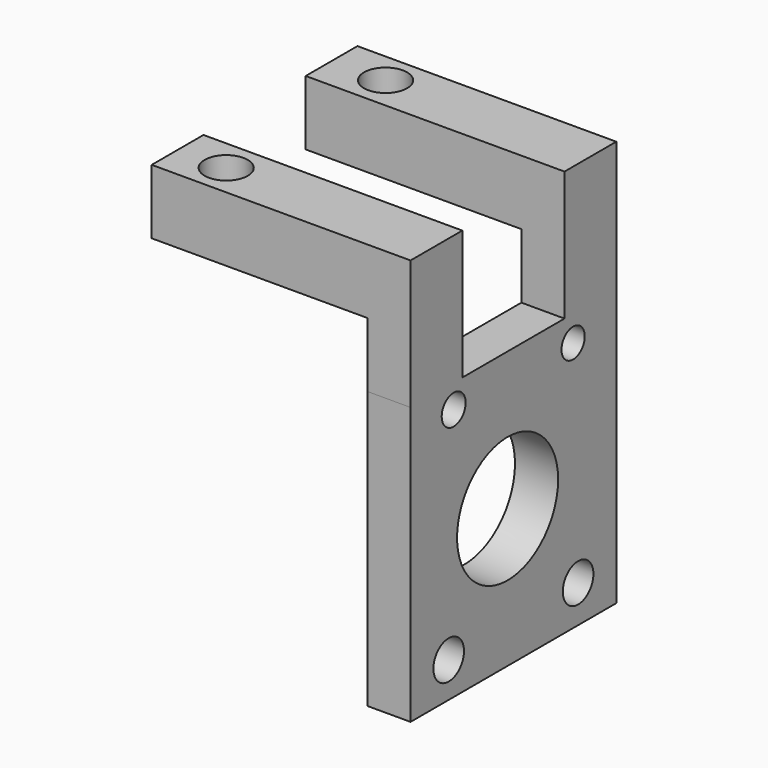
from build123d import *

# Parameters (mm, degrees)
F0_W           = 23.846153
F0_H           = 25.673076
F0_R           = 1.772989
F0_R_2         = 5.857696
F0_R_3         = 1.386751
F0_R_4         = 1.346154
F1_DEPTH       = 4
F2_W           = 4
F2_H           = 6
F3_DEPTH       = 10
F3_FACE_W      = 4
F3_FACE_H      = 6
F4_DEPTH       = 2
F5_W           = 6
F5_H           = 6
F6_DEPTH       = 20
F8_D           = 4
F8_CSINK_D     = 6
F8_CSINK_ANGLE = 90
F9_D           = 4
F9_CSINK_D     = 6
F9_CSINK_ANGLE = 90


with BuildPart() as f1:
    # F0 (on Right) → F1 (new body)
    with BuildSketch(Plane.YZ):
        with Locations((0.673076, -12.836538)):
            Rectangle(F0_W, F0_H)
        with Locations((-6.826923, -22.403846)):
            Circle(F0_R, mode=Mode.SUBTRACT)
        with Locations((8.173076, -22.211537)):
            Circle(F0_R, mode=Mode.SUBTRACT)
        with Locations((0, -12.836538)):
            Circle(F0_R_2, mode=Mode.SUBTRACT)
        with Locations((-6.25, -2.211538)):
            Circle(F0_R_3, mode=Mode.SUBTRACT)
        with Locations((7.596153, -2.403846)):
            Circle(F0_R_4, mode=Mode.SUBTRACT)
    extrude(amount=F1_DEPTH)

    # F2 (on face) → F3 (join)
    with BuildSketch(Plane.XY):
        with Locations((2, 9.596153)):
            Rectangle(F2_W, F2_H)
        with Locations((2, -8.25)):
            Rectangle(F2_W, F2_H)
    extrude(amount=F3_DEPTH)

    # F3_face (on face) → F4 (join)
    with BuildSketch(Plane(origin=(2, 9.596153, 10), x_dir=(1, 0, 0), z_dir=(0, 0, 1))):
        Rectangle(F3_FACE_W, F3_FACE_H)
        with Locations((0, -17.846153)):
            Rectangle(F3_FACE_W, F3_FACE_H)
    extrude(amount=F4_DEPTH)

    # F5 (on face) → F6 (join)
    with BuildSketch(Plane(origin=(0, 0, 0), x_dir=(0, -1, 0), z_dir=(-1, 0, 0))):
        with Locations((-9.596153, 9)):
            Rectangle(F5_W, F5_H)
        with Locations((8.25, 9)):
            Rectangle(F5_W, F5_H)
    extrude(amount=F6_DEPTH)

    # F8 (through all)
    with Locations(Plane(origin=(0, 0, 6), x_dir=(1, 0, 0), z_dir=(0, 0, -1))):
        with Locations((-15.495499, 8.25)):
            CounterSinkHole(F8_D / 2, F8_CSINK_D / 2, counter_sink_angle=F8_CSINK_ANGLE)

    # F9 (through all)
    with Locations(Plane(origin=(0, 0, 6), x_dir=(1, 0, 0), z_dir=(0, 0, -1))):
        with Locations((-15.059971, -9.678768)):
            CounterSinkHole(F9_D / 2, F9_CSINK_D / 2, counter_sink_angle=F9_CSINK_ANGLE)


solid = f1.part
